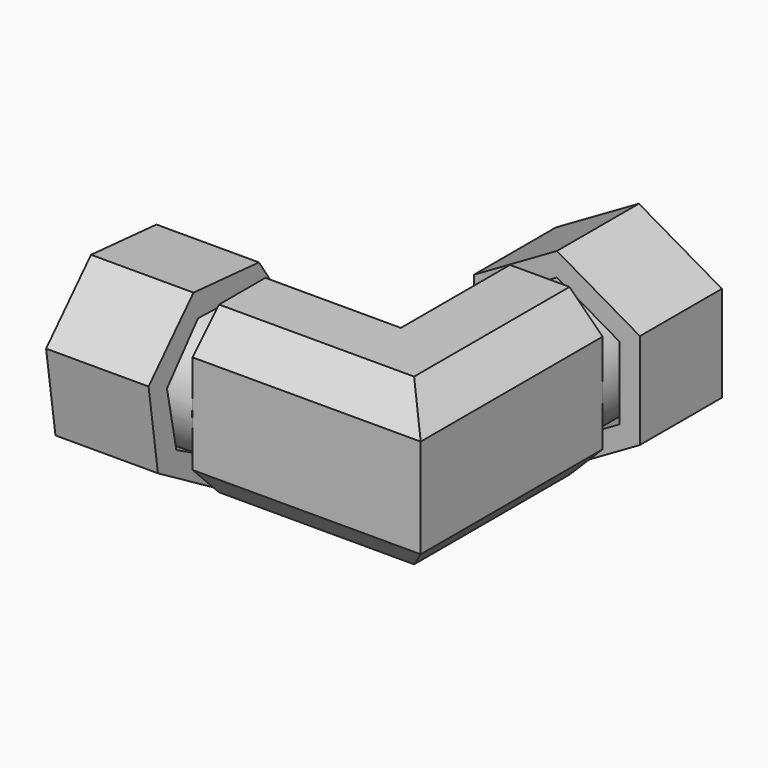
from build123d import *

# Parameters (mm, degrees)
F1_DEPTH = 12.7
F2_R     = 9.605515
F2_R_2   = 4.7625
F3_DEPTH = 19.05
F5_DEPTH = 15.748
F6_R     = 9.652
F6_R_2   = 4.7625
F7_DEPTH = 19.05
F9_DEPTH = 15.748
F10_SIZE = 5.08


with BuildPart() as f1:
    # F0 (on Top) → F1 (new body, symmetric)
    with BuildSketch(Plane.XY):
        Polygon((-9.652, 9.525), (-25.4, 9.525), (-25.4, 0), (-25.4, -9.525), (9.652, -9.525), (9.652, 9.525), (9.652, 25.4), (0, 25.4), (-9.652, 25.4), align=None)
    extrude(amount=F1_DEPTH, both=True)

    # F2 (on face) → F3 (join)
    with BuildSketch(Plane(origin=(-25.4, 0, 0), x_dir=(0, -1, 0), z_dir=(-1, 0, 0))):
        Circle(F2_R)
        Circle(F2_R_2, mode=Mode.SUBTRACT)
    extrude(amount=F3_DEPTH)

    # F4 (on face) → F5 (join)
    with BuildSketch(Plane(origin=(-44.45, 0, 0), x_dir=(0, -1, 0), z_dir=(-1, 0, 0))):
        Polygon((12.053703, -8.112624), (13.858066, 4.365827), (5.227022, 13.55672), (-7.340076, 12.539127), (-14.379947, 2.079315), (-10.591424, -9.946263), (1.172657, -14.482103), align=None)
        Polygon((4.353991, 9.731724), (10.323238, 2.663543), (8.518875, -6.41034), (0.299626, -10.657107), (-8.145248, -6.878854), (-10.456584, 2.079315), (-4.893899, 9.471718), align=None, mode=Mode.SUBTRACT)
    extrude(amount=-F5_DEPTH)

    # F6 (on face) → F7 (join)
    with BuildSketch(Plane(origin=(0, 25.4, 0), x_dir=(-1, 0, 0), z_dir=(0, 1, 0))):
        Circle(F6_R)
        Circle(F6_R_2, mode=Mode.SUBTRACT)
    extrude(amount=F7_DEPTH)

    # F10
    f10_edges = [f1.edges().sort_by_distance(p)[0] for p in [
        (-17.526, 9.525, 12.7),
        (-7.874, -9.525, 12.7),
        (-9.652, 17.4625, 12.7),
        (9.652, 7.9375, 12.7),
        (9.652, 7.9375, -12.7),
        (-17.526, 9.525, -12.7),
        (-9.652, 17.4625, -12.7),
        (-7.874, -9.525, -12.7),
    ]]
    chamfer(f10_edges, length=F10_SIZE)


with BuildPart() as f9:
    # F8 (on face) → F9 (new body)
    with BuildSketch(Plane(origin=(0, 44.45, 0), x_dir=(-1, 0, 0), z_dir=(0, 1, 0))):
        Polygon((12.758085, -7.365884), (12.758085, 7.365884), (0, 14.731767), (-12.758085, 7.365884), (-12.758085, -7.365884), (0, -14.731767), align=None)
        Polygon((0, 11.14517), (9.652, 5.572585), (9.652, -5.572585), (0, -11.14517), (-9.652, -5.572585), (-9.652, 5.572585), align=None, mode=Mode.SUBTRACT)
    extrude(amount=-F9_DEPTH)


solid = Compound([f1.part, f9.part])
